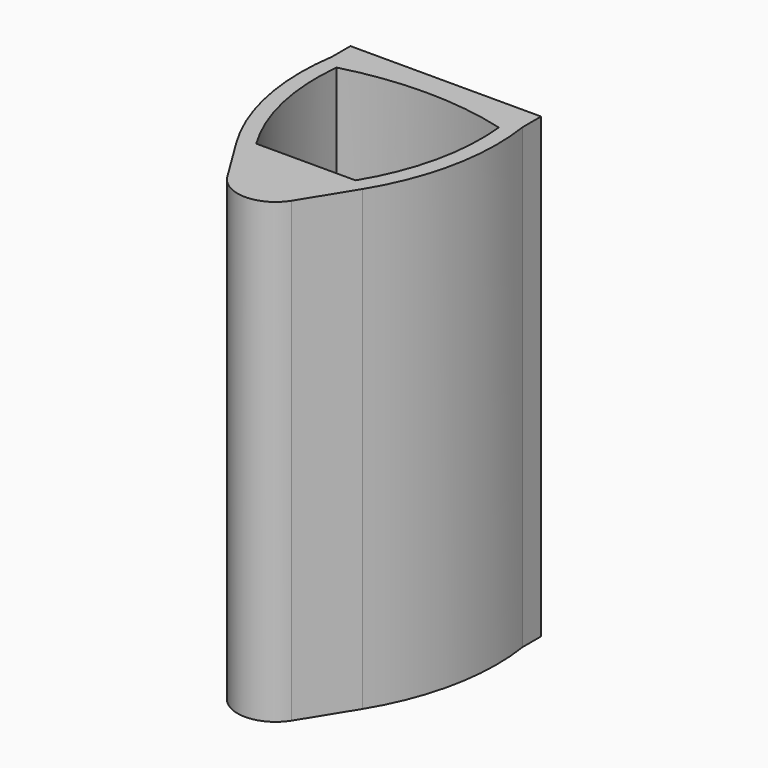
from build123d import *

# Parameters (mm, degrees)
F0_R     = 4.5
F1_DEPTH = 102.5
F2_DEPTH = 3.5
F3_DEPTH = 30
F4_DEPTH = 102.5
F6_DEPTH = 10
F7_R     = 6


with BuildPart() as f1:
    # F0 (on Top) → F1 (new body)
    with BuildSketch(Plane.XY):
        with BuildLine():
            ThreePointArc((21.343557, 34.00853), (0, 37.204707), (-21.343557, 34.00853))
            ThreePointArc((-21.343557, 34.00853), (-20.883556, 15.456117), (-14.112868, -1.822812))
            Line((-14.112868, -1.822812), (-7.232334, -12.965798))
            ThreePointArc((-7.232334, -12.965798), (-0.040256, -16.999905), (7.18971, -13.034101))
            Line((7.18971, -13.034101), (14.112868, -1.822812))
            ThreePointArc((14.112868, -1.822812), (20.883556, 15.456117), (21.343557, 34.00853))
        make_face()
        with Locations((0, -8.5)):
            Circle(F0_R, mode=Mode.SUBTRACT)
        with BuildLine():
            Line((11.125, 0), (0, 0))
            Line((0, 0), (-11.125, 0))
            ThreePointArc((-11.125, 0), (-17.220948, 15.062302), (-18.164667, 31.283983))
            ThreePointArc((-18.164667, 31.283983), (0, 33.704707), (18.164667, 31.283983))
            ThreePointArc((18.164667, 31.283983), (17.220948, 15.062302), (11.125, 0))
        make_face(mode=Mode.SUBTRACT)
        with Locations((0, -8.5)):
            Circle(F0_R)
    extrude(amount=F1_DEPTH)

    # F0 (on Top) → F2 (join)
    with BuildSketch(Plane.XY):
        with BuildLine():
            Line((-11.125, 0), (0, 0))
            Line((0, 0), (11.125, 0))
            ThreePointArc((11.125, 0), (17.220948, 15.062302), (18.164667, 31.283983))
            ThreePointArc((18.164667, 31.283983), (0, 33.704707), (-18.164667, 31.283983))
            ThreePointArc((-18.164667, 31.283983), (-17.220948, 15.062302), (-11.125, 0))
        make_face()
    extrude(amount=F2_DEPTH)

    # F0 (on Top) → F3 (cut)
    with BuildSketch(Plane.XY):
        with Locations((0, -8.5)):
            Circle(F0_R)
    extrude(amount=F3_DEPTH, mode=Mode.SUBTRACT)

    # F0 (on Top) → F4 (join)
    with BuildSketch(Plane.XY):
        with BuildLine():
            Line((-21.343557, 39.146077), (-21.343557, 34.00853))
            ThreePointArc((-21.343557, 34.00853), (0, 37.204707), (21.343557, 34.00853))
            Line((21.343557, 34.00853), (21.343557, 39.146077))
            Line((21.343557, 39.146077), (-21.343557, 39.146077))
        make_face()
    extrude(amount=F4_DEPTH)

    # F5 (on face) → F6 (cut)
    with BuildSketch(Plane(origin=(0, 39.146077, 0), x_dir=(-1, 0, 0), z_dir=(0, 1, 0))):
        Polygon((0, 89), (-17.75, 71.25), (0, 53.5), (17.75, 71.25), align=None)
    extrude(amount=-F6_DEPTH, mode=Mode.SUBTRACT)

    # F7
    f7_edges = [f1.edges().sort_by_distance(p)[0] for p in [
        (-17.75, 35.270601, 71.25),
        (0, 36.425392, 53.5),
        (17.75, 35.270601, 71.25),
        (0, 36.425392, 89),
    ]]
    fillet(f7_edges, radius=F7_R)


solid = f1.part
